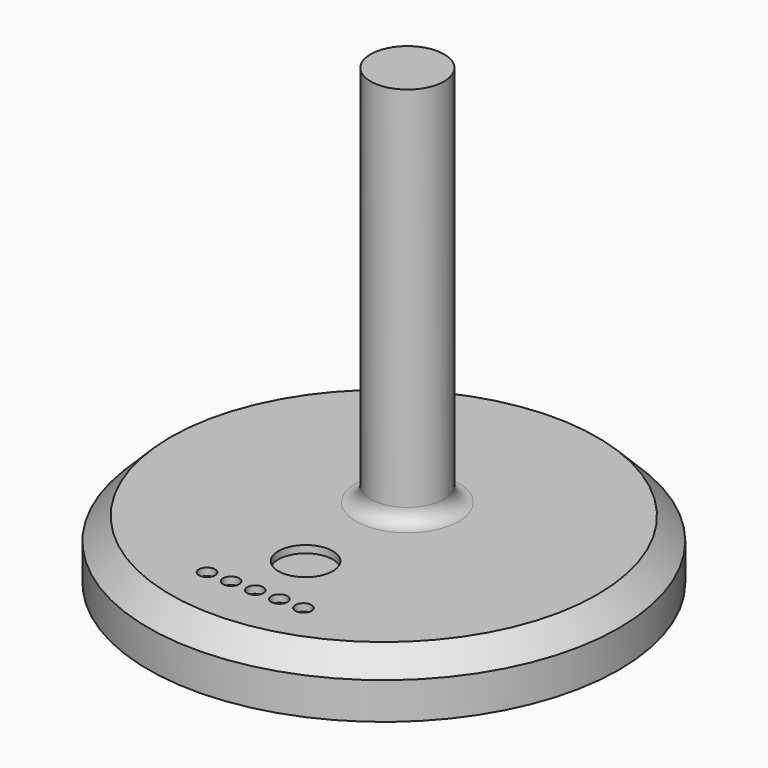
from build123d import *

# Parameters (mm, degrees)
SKETCH034_R     = 160
PAD021_DEPTH    = 40
SKETCH035_R     = 25
PAD022_DEPTH    = 260
FILLET004_R     = 10
SKETCH036_R     = 18.5
SKETCH036_R_2   = 5.5
POCKET004_DEPTH = 5
SKETCH037_R     = 17.5
SKETCH037_R_2   = 5
PAD023_DEPTH    = 10
FILLET005_R     = 1
PAD024_DEPTH    = 5
FILLET006_R     = 0.5
FILLET007_R     = 1.5
FILLET008_R     = 0.5
CHAMFER001_SIZE = 15
SKETCH055_R     = 5
POCKET007_DEPTH = 10
SKETCH056_R     = 17.5
POCKET008_DEPTH = 15


with BuildPart() as part:
    # Sketch034 (on Face1 of CopyPad021) → Pad021 (new body)
    with BuildSketch(Plane(origin=(0, 0, -559.544271), x_dir=(1, 0, 0), z_dir=(0, 0, -1))):
        with Locations((0, -82.297836)):
            Circle(SKETCH034_R)
    extrude(amount=PAD021_DEPTH)

    # Sketch035 (on Face2 of Pad021) → Pad022 (join)
    with BuildSketch(Plane.XY.offset(-559.544271)):
        with Locations((0, 102.297836)):
            Circle(SKETCH035_R)
    extrude(amount=PAD022_DEPTH)

    # Fillet004
    fillet004_edges = [part.edges().sort_by_distance(p)[0] for p in [
        (-25, 102.297836, -559.544271),
    ]]
    fillet(fillet004_edges, radius=FILLET004_R)

    # Sketch036 (on Face1 of Fillet004) → Pocket004 (cut)
    with BuildSketch(Plane.XY.offset(-559.544271)):
        with Locations((0, 15.789559)):
            Circle(SKETCH036_R)
        with Locations((-32.775259, -26.969265)):
            Circle(SKETCH036_R_2)
        with Locations((-16.38763, -26.969265)):
            Circle(SKETCH036_R_2)
        with Locations((0, -26.969265)):
            Circle(SKETCH036_R_2)
        with Locations((16.38763, -26.969265)):
            Circle(SKETCH036_R_2)
        with Locations((32.775259, -26.969265)):
            Circle(SKETCH036_R_2)
    extrude(amount=-POCKET004_DEPTH, mode=Mode.SUBTRACT)

    # Sketch037 (on Face14 of Pocket004) → Pad023 (join)
    with BuildSketch(Plane.XY.offset(-564.544271)):
        with Locations((0, 15.789559)):
            Circle(SKETCH037_R)
        with Locations((-32.775259, -26.969265)):
            Circle(SKETCH037_R_2)
        with Locations((-16.38763, -26.969265)):
            Circle(SKETCH037_R_2)
        with Locations((0, -26.969265)):
            Circle(SKETCH037_R_2)
        with Locations((16.38763, -26.969265)):
            Circle(SKETCH037_R_2)
        with Locations((32.775259, -26.969265)):
            Circle(SKETCH037_R_2)
    extrude(amount=PAD023_DEPTH)

    # Fillet005
    fillet005_edges = [part.edges().sort_by_distance(p)[0] for p in [
        (-5, -26.969265, -554.544271),
        (11.38763, -26.969265, -554.544271),
        (27.775259, -26.969265, -554.544271),
        (-21.38763, -26.969265, -554.544271),
        (-37.775259, -26.969265, -554.544271),
    ]]
    fillet(fillet005_edges, radius=FILLET005_R)

    # Sketch038 (on Face29 of Fillet005) → Pad024 (join)
    with BuildSketch(Plane.XY.offset(-554.544271)):
        with BuildLine():
            ThreePointArc((3.946719, 28.587051), (0, 32.53377), (-3.946719, 28.587051))
            Line((-3.946719, 28.587051), (-3.946719, 2.992067))
            ThreePointArc((-3.946719, 2.992067), (0, -0.954652), (3.946719, 2.992067))
            Line((3.946719, 28.587051), (3.946719, 2.992067))
        make_face()
    extrude(amount=PAD024_DEPTH)

    # Fillet006
    fillet006_edges = [part.edges().sort_by_distance(p)[0] for p in [
        (-3.946719, 15.789559, -554.544271),
    ]]
    fillet(fillet006_edges, radius=FILLET006_R)

    # Fillet007
    fillet007_edges = [part.edges().sort_by_distance(p)[0] for p in [
        (-3.946719, 15.789559, -549.544271),
    ]]
    fillet(fillet007_edges, radius=FILLET007_R)

    # Fillet008
    fillet008_edges = [part.edges().sort_by_distance(p)[0] for p in [
        (-17.5, 15.789559, -554.544271),
    ]]
    fillet(fillet008_edges, radius=FILLET008_R)

    # Chamfer001
    chamfer001_edges = [part.edges().sort_by_distance(p)[0] for p in [
        (-160, 82.297836, -559.544271),
    ]]
    chamfer(chamfer001_edges, length=CHAMFER001_SIZE)

    # Sketch055 (on Face36 of Chamfer001) → Pocket007 (cut)
    with BuildSketch(Plane.XY.offset(-554.544271)):
        with Locations((-32.775259, -26.969265)):
            Circle(SKETCH055_R)
        with Locations((-16.38763, -26.969265)):
            Circle(SKETCH055_R)
        with Locations((0, -26.969265)):
            Circle(SKETCH055_R)
        with Locations((16.38763, -26.969265)):
            Circle(SKETCH055_R)
        with Locations((32.775259, -26.969265)):
            Circle(SKETCH055_R)
    extrude(amount=-POCKET007_DEPTH, mode=Mode.SUBTRACT)

    # Sketch056 (on Face30 of Pocket007) → Pocket008 (cut)
    with BuildSketch(Plane.XY.offset(-549.544271)):
        with Locations((0, 15.789559)):
            Circle(SKETCH056_R)
    extrude(amount=-POCKET008_DEPTH, mode=Mode.SUBTRACT)


solid = part.part
